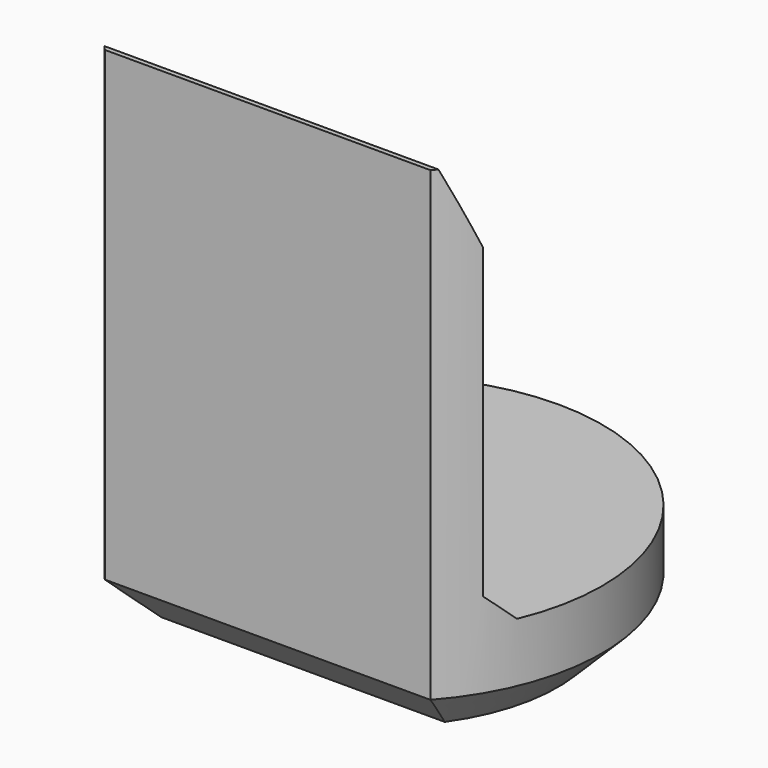
from build123d import *

# Parameters (mm, degrees)
PAD007_DEPTH         = 6.9
POCKET005_DEPTH      = 2.951
POCKET005_DEPTH_BACK = 2.951
CHAMFER008_SIZE      = 0.6


with BuildPart() as part:
    # Sketch018 → Pad007 (new body)
    with BuildSketch(Plane.XY):
        with BuildLine():
            ThreePointArc((2.2, -1.9653244007), (0, 2.95), (-2.2, -1.9653244007))
            Line((-2.2, -1.9653244007), (2.2, -1.9653244007))
        make_face()
    extrude(amount=PAD007_DEPTH)

    # Sketch019 → Pocket005 (cut, two sides)
    with BuildSketch(Plane.YZ) as pocket005_sk:
        Polygon((-1.9, 6.9), (-1.5, 5.9), (-1.5, 1.75), (-1.15, 1.4), (5, 1.4), (5, 6.9), align=None)
    extrude(amount=-POCKET005_DEPTH, mode=Mode.SUBTRACT)
    extrude(pocket005_sk.sketch, amount=POCKET005_DEPTH_BACK, mode=Mode.SUBTRACT)

    # Chamfer008
    chamfer008_edges = [part.edges().sort_by_distance(p)[0] for p in [
        (0, 2.95, 0),
        (0, -1.965324, 0),
    ]]
    chamfer(chamfer008_edges, length=CHAMFER008_SIZE)


with BuildPart() as part_1:
    # Body051 placement: moved
    add(part.part.moved(Location((0, 6, 0))))


solid = part_1.part
